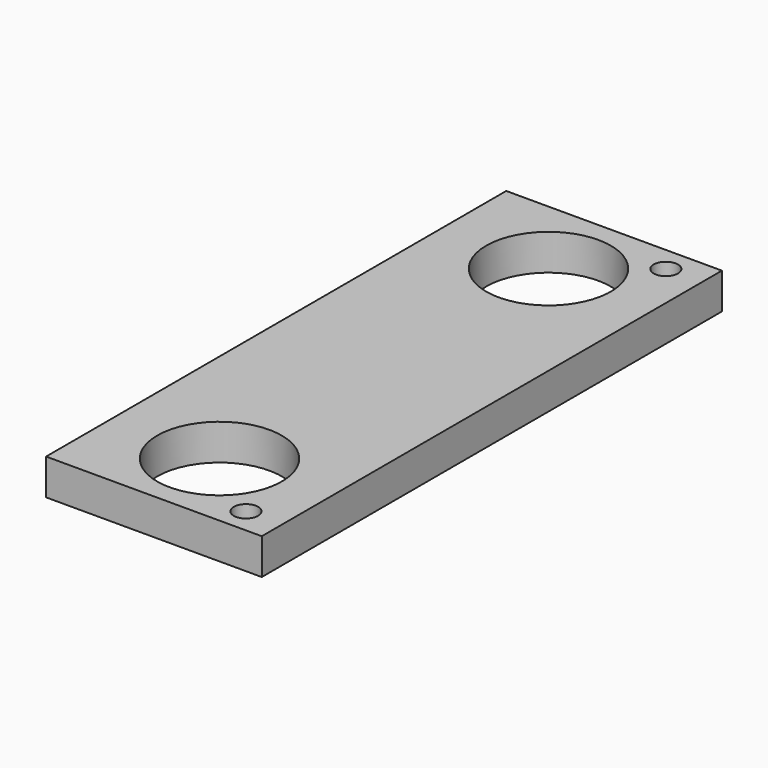
from build123d import *

# Parameters (mm, degrees)
F0_W     = 38.1
F0_H     = 101.6
F1_DEPTH = 6.35
F2_D     = 22
F3_D     = 4.3053


with BuildPart() as f1:
    # F0 (on Top) → F1 (new body)
    with BuildSketch(Plane.XY):
        with Locations((-51.9482906996, -46.355)):
            Rectangle(F0_W, F0_H)
    extrude(amount=-F1_DEPTH)

    # F2 (through all)
    with Locations(Plane.XY):
        with Locations((-51.9482906996, -10.033), (-51.9482906996, -82.677)):
            Hole(F2_D / 2)

    # F3 (through all)
    with Locations(Plane.XY):
        with Locations((-39.2482906996, 0), (-39.2482906996, -92.71)):
            Hole(F3_D / 2)


solid = f1.part
